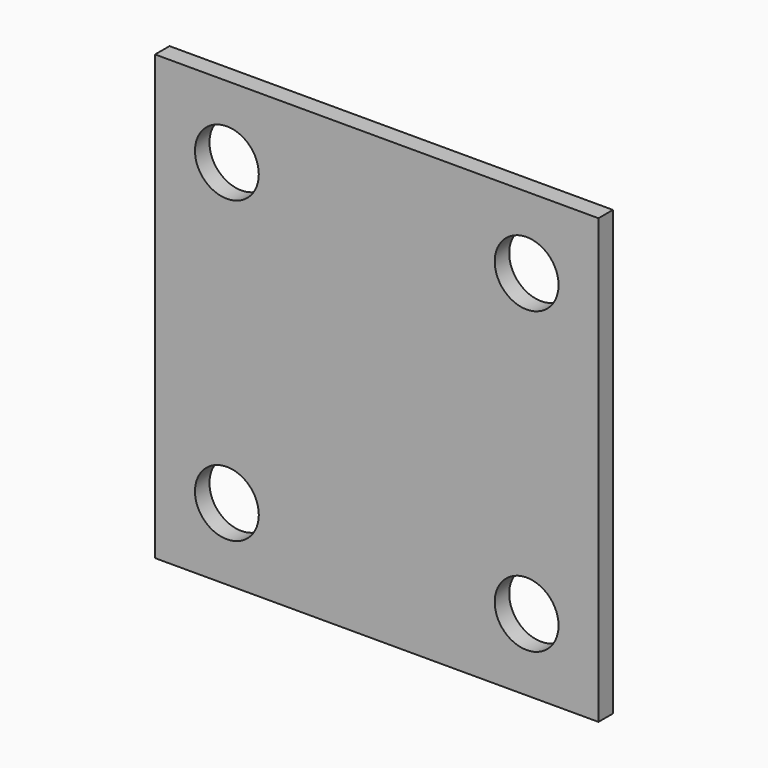
from build123d import *

# Parameters (mm, degrees)
F0_W     = 88.9
F0_H     = 88.9
F1_DEPTH = 3.628571
F2_R     = 6.4
F3_DEPTH = 46.5


with BuildPart() as f1:
    # F0 (on Front) → F1 (new body)
    with BuildSketch(Plane.XZ):
        with Locations((-6.692423, 4.99368)):
            Rectangle(F0_W, F0_H)
    extrude(amount=F1_DEPTH)

    # F2 (on face) → F3 (cut)
    with BuildSketch(Plane.XZ):
        with Locations((23.357577, 35.04368)):
            Circle(F2_R)
        with Locations((23.357577, -25.05632)):
            Circle(F2_R)
        with Locations((-36.742423, -25.05632)):
            Circle(F2_R)
        with Locations((-36.742423, 35.04368)):
            Circle(F2_R)
    extrude(amount=F3_DEPTH, mode=Mode.SUBTRACT)


solid = f1.part
